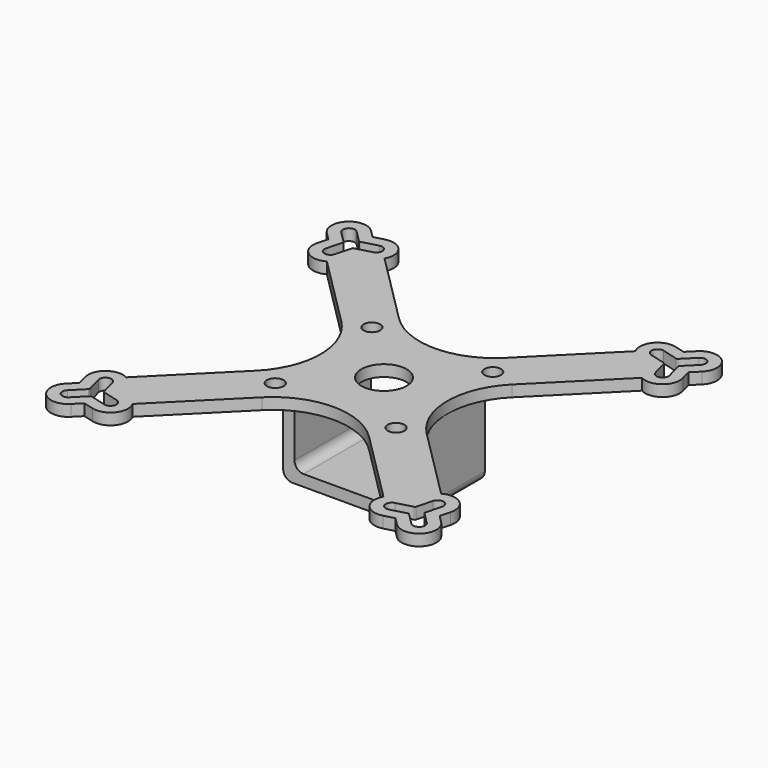
from build123d import *

# Parameters (mm, degrees)
F0_R     = 3
F1_DEPTH = 10.5
F2_R     = 1.1
F3_DEPTH = 1.5
F4_W     = 13.6
F4_H     = 9
F5_DEPTH = 25
F6_R     = 1.2


with BuildPart() as f1:
    # F0 (on Top) → F1 (new body)
    with BuildSketch(Plane.XY):
        Polygon((7, 6.313708), (-7, 6.313708), (-8.3, 6.313708), (-8.3, -6.313708), (-7, -6.313708), (7, -6.313708), (8.3, -6.313708), (8.3, 6.313708), align=None)
        Circle(F0_R, mode=Mode.SUBTRACT)
        Circle(F0_R)
    extrude(amount=-F1_DEPTH)

    # F2 (on face) + F0 (on Top) → F3 (join)
    with BuildSketch(Plane.XY):
        with BuildLine():
            ThreePointArc((-20.860771, -16.61813), (-23.399578, -16.804495), (-24.211556, -19.217162))
            Line((-24.211556, -19.217162), (-23.843491, -20.5908))
            Line((-23.843491, -20.5908), (-24.849064, -21.596373))
            ThreePointArc((-24.849064, -21.596373), (-24.849064, -24.849064), (-21.596373, -24.849064))
            Line((-21.596373, -24.849064), (-20.5908, -23.843491))
            Line((-20.5908, -23.843491), (-19.217162, -24.211556))
            ThreePointArc((-19.217162, -24.211556), (-16.804495, -23.399578), (-16.61813, -20.860771))
            Line((-16.61813, -20.860771), (-7.071068, -11.313708))
            ThreePointArc((-7.071068, -11.313708), (0, -8.384776), (7.071068, -11.313708))
            Line((7.071068, -11.313708), (16.61813, -20.860771))
            ThreePointArc((16.61813, -20.860771), (16.804495, -23.399578), (19.217162, -24.211556))
            Line((19.217162, -24.211556), (20.5908, -23.843491))
            Line((20.5908, -23.843491), (21.596373, -24.849064))
            ThreePointArc((21.596373, -24.849064), (24.849064, -24.849064), (24.849064, -21.596373))
            Line((24.849064, -21.596373), (23.843491, -20.5908))
            Line((23.843491, -20.5908), (24.211556, -19.217162))
            ThreePointArc((24.211556, -19.217162), (23.399578, -16.804495), (20.860771, -16.61813))
            Line((20.860771, -16.61813), (11.313708, -7.071068))
            ThreePointArc((11.313708, -7.071068), (8.384776, 0), (11.313708, 7.071068))
            Line((11.313708, 7.071068), (20.860771, 16.61813))
            ThreePointArc((20.860771, 16.61813), (23.399578, 16.804495), (24.211556, 19.217162))
            Line((24.211556, 19.217162), (23.843491, 20.5908))
            Line((23.843491, 20.5908), (24.849064, 21.596373))
            ThreePointArc((24.849064, 21.596373), (24.849064, 24.849064), (21.596373, 24.849064))
            Line((21.596373, 24.849064), (20.5908, 23.843491))
            Line((20.5908, 23.843491), (19.217162, 24.211556))
            ThreePointArc((19.217162, 24.211556), (16.804495, 23.399578), (16.61813, 20.860771))
            Line((16.61813, 20.860771), (7.071068, 11.313708))
            ThreePointArc((7.071068, 11.313708), (0, 8.384776), (-7.071068, 11.313708))
            Line((-7.071068, 11.313708), (-16.61813, 20.860771))
            ThreePointArc((-16.61813, 20.860771), (-16.804495, 23.399578), (-19.217162, 24.211556))
            Line((-19.217162, 24.211556), (-20.5908, 23.843491))
            Line((-20.5908, 23.843491), (-21.596373, 24.849064))
            ThreePointArc((-21.596373, 24.849064), (-24.849064, 24.849064), (-24.849064, 21.596373))
            Line((-24.849064, 21.596373), (-23.843491, 20.5908))
            Line((-23.843491, 20.5908), (-24.211556, 19.217162))
            ThreePointArc((-24.211556, 19.217162), (-23.399578, 16.804495), (-20.860771, 16.61813))
            Line((-20.860771, 16.61813), (-11.313708, 7.071068))
            ThreePointArc((-11.313708, 7.071068), (-8.384776, 0), (-11.313708, -7.071068))
            Line((-11.313708, -7.071068), (-20.860771, -16.61813))
        make_face()
        with BuildLine():
            ThreePointArc((-18.414823, -21.217186), (-17.849138, -22.196982), (-18.828934, -22.762668))
            Line((-18.828934, -22.762668), (-20.939524, -22.197137))
            ThreePointArc((-20.939524, -22.197137), (-21.031939, -22.197137), (-21.111973, -22.243344))
            Line((-21.111973, -22.243344), (-22.657033, -23.788404))
            ThreePointArc((-22.657033, -23.788404), (-23.788404, -23.788404), (-23.788404, -22.657033))
            Line((-23.788404, -22.657033), (-22.243344, -21.111973))
            ThreePointArc((-22.243344, -21.111973), (-22.197137, -21.031939), (-22.197137, -20.939524))
            Line((-22.197137, -20.939524), (-22.762668, -18.828934))
            ThreePointArc((-22.762668, -18.828934), (-22.196982, -17.849138), (-21.217186, -18.414823))
            Line((-21.217186, -18.414823), (-20.651655, -20.525414))
            ThreePointArc((-20.651655, -20.525414), (-20.605448, -20.605448), (-20.525414, -20.651655))
            Line((-20.525414, -20.651655), (-18.414823, -21.217186))
        make_face(mode=Mode.SUBTRACT)
        with Locations((-8, -8)):
            Circle(F2_R, mode=Mode.SUBTRACT)
        with BuildLine():
            Line((22.657033, -23.788404), (21.111973, -22.243344))
            ThreePointArc((21.111973, -22.243344), (21.031939, -22.197137), (20.939524, -22.197137))
            Line((20.939524, -22.197137), (18.828934, -22.762668))
            ThreePointArc((18.828934, -22.762668), (17.849138, -22.196982), (18.414823, -21.217186))
            Line((18.414823, -21.217186), (20.525414, -20.651655))
            ThreePointArc((20.525414, -20.651655), (20.605448, -20.605448), (20.651655, -20.525414))
            Line((20.651655, -20.525414), (21.217186, -18.414823))
            ThreePointArc((21.217186, -18.414823), (22.196982, -17.849138), (22.762668, -18.828934))
            Line((22.762668, -18.828934), (22.197137, -20.939524))
            ThreePointArc((22.197137, -20.939524), (22.197137, -21.031939), (22.243344, -21.111973))
            Line((22.243344, -21.111973), (23.788404, -22.657033))
            ThreePointArc((23.788404, -22.657033), (23.788404, -23.788404), (22.657033, -23.788404))
        make_face(mode=Mode.SUBTRACT)
        with Locations((8, -8)):
            Circle(F2_R, mode=Mode.SUBTRACT)
        with Locations((-8, 8)):
            Circle(F2_R, mode=Mode.SUBTRACT)
        with BuildLine():
            Line((-22.657033, 23.788404), (-21.111973, 22.243344))
            ThreePointArc((-21.111973, 22.243344), (-21.031939, 22.197137), (-20.939524, 22.197137))
            Line((-20.939524, 22.197137), (-18.828934, 22.762668))
            ThreePointArc((-18.828934, 22.762668), (-17.849138, 22.196982), (-18.414823, 21.217186))
            Line((-18.414823, 21.217186), (-20.525414, 20.651655))
            ThreePointArc((-20.525414, 20.651655), (-20.605448, 20.605448), (-20.651655, 20.525414))
            Line((-20.651655, 20.525414), (-21.217186, 18.414823))
            ThreePointArc((-21.217186, 18.414823), (-22.196982, 17.849138), (-22.762668, 18.828934))
            Line((-22.762668, 18.828934), (-22.197137, 20.939524))
            ThreePointArc((-22.197137, 20.939524), (-22.197137, 21.031939), (-22.243344, 21.111973))
            Line((-22.243344, 21.111973), (-23.788404, 22.657033))
            ThreePointArc((-23.788404, 22.657033), (-23.788404, 23.788404), (-22.657033, 23.788404))
        make_face(mode=Mode.SUBTRACT)
        Polygon((-8.3, -6.313708), (-8.3, 6.313708), (-7, 6.313708), (7, 6.313708), (8.3, 6.313708), (8.3, -6.313708), (7, -6.313708), (-7, -6.313708), align=None, mode=Mode.SUBTRACT)
        with Locations((8, 8)):
            Circle(F2_R, mode=Mode.SUBTRACT)
        with BuildLine():
            Line((23.788404, 22.657033), (22.243344, 21.111973))
            ThreePointArc((22.243344, 21.111973), (22.197137, 21.031939), (22.197137, 20.939524))
            Line((22.197137, 20.939524), (22.762668, 18.828934))
            ThreePointArc((22.762668, 18.828934), (22.196982, 17.849138), (21.217186, 18.414823))
            Line((21.217186, 18.414823), (20.651655, 20.525414))
            ThreePointArc((20.651655, 20.525414), (20.605448, 20.605448), (20.525414, 20.651655))
            Line((20.525414, 20.651655), (18.414823, 21.217186))
            ThreePointArc((18.414823, 21.217186), (17.849138, 22.196982), (18.828934, 22.762668))
            Line((18.828934, 22.762668), (20.939524, 22.197137))
            ThreePointArc((20.939524, 22.197137), (21.031939, 22.197137), (21.111973, 22.243344))
            Line((21.111973, 22.243344), (22.657033, 23.788404))
            ThreePointArc((22.657033, 23.788404), (23.788404, 23.788404), (23.788404, 22.657033))
        make_face(mode=Mode.SUBTRACT)
    with BuildSketch(Plane.XY):
        Polygon((7, 6.313708), (-7, 6.313708), (-8.3, 6.313708), (-8.3, -6.313708), (-7, -6.313708), (7, -6.313708), (8.3, -6.313708), (8.3, 6.313708), align=None)
        Circle(F0_R, mode=Mode.SUBTRACT)
    extrude(amount=F3_DEPTH)

    # F4 (on face) → F5 (cut)
    with BuildSketch(Plane.XZ.offset(6.313708)):
        with Locations((0, -4.5)):
            Rectangle(F4_W, F4_H)
    extrude(amount=-F5_DEPTH, mode=Mode.SUBTRACT)

    # F6
    f6_edges = [f1.edges().sort_by_distance(p)[0] for p in [
        (8.3, 0, -10.5),
        (-8.3, 0, -10.5),
        (-6.8, 0, -9),
        (6.8, 0, -9),
    ]]
    fillet(f6_edges, radius=F6_R)


solid = f1.part
